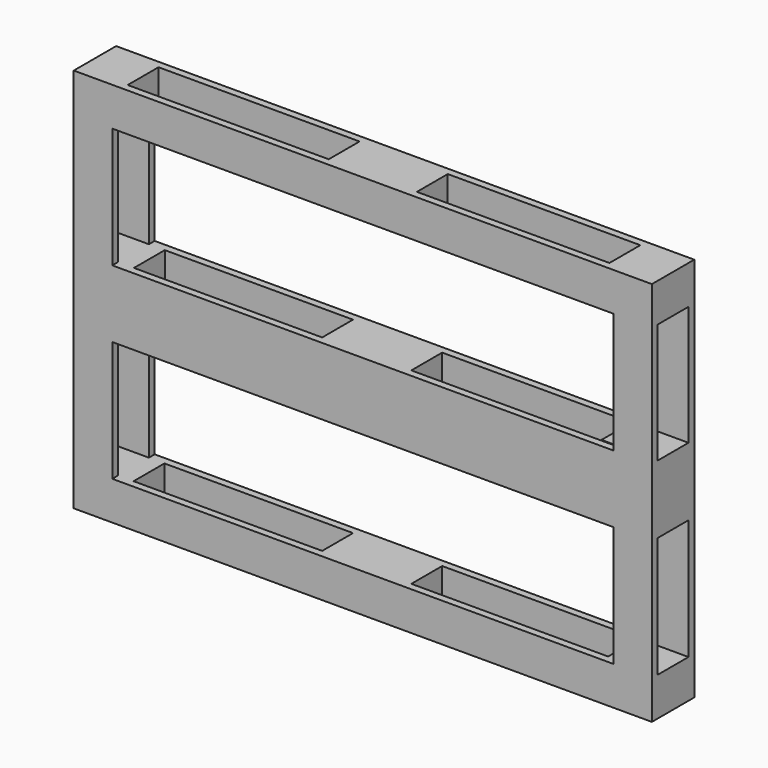
from build123d import *

# Parameters (mm, degrees)
F0_W     = 1200
F0_H     = 800
F0_W_2   = 1040
F0_H_2   = 250
F1_DEPTH = 15
F2_W     = 185.065291822
F2_H     = 140
F3_DEPTH = 40
F2_W_2   = 100
F2_H_2   = 80
F2_W_3   = 116.4537014898
F2_H_3   = 141.4459940791
F2_W_4   = 112.9816351
F2_W_5   = 102.8472425875
F2_W_6   = 112.1940789286
F2_W_7   = 183.0065995455
F4_DEPTH = 40


with BuildPart() as f1:
    # F0 (on Front) → F1 (new body)
    with BuildSketch(Plane.XZ):
        with Locations((-16.7594370905, 0)):
            Rectangle(F0_W, F0_H)
        with Locations((-16.7594370905, -195)):
            Rectangle(F0_W_2, F0_H_2, mode=Mode.SUBTRACT)
        with Locations((-16.7594370905, 195)):
            Rectangle(F0_W_2, F0_H_2, mode=Mode.SUBTRACT)
    extrude(amount=F1_DEPTH)

    # F2 (on face) → F3 (join)
    with BuildSketch(Plane(origin=(0, 0, 0), x_dir=(-1, 0, 0), z_dir=(0, 1, 0))):
        with Locations((20.5517672002, 0)):
            Rectangle(F2_W, F2_H)
        Polygon((616.7594370905, -70), (616.7594370905, 70), (536.7594370905, 70), (503.7778019905, 70), (503.7778019905, -70), (536.7594370905, -70), align=None)
        Polygon((616.7594370905, -400), (616.7594370905, -320), (536.7594370905, -320), (504.5653581619, -320), (504.5653581619, -400), align=None)
        Polygon((-503.2405629095, -320), (-583.2405629095, -320), (-583.2405629095, -400), (-480.393320322, -400), (-480.393320322, -320), align=None)
        Polygon((-503.2405629095, 70), (-503.2405629095, 71.4459940791), (-583.2405629095, 71.4459940791), (-583.2405629095, -70), (-503.2405629095, -70), (-466.7868614197, -70), (-466.7868614197, 70), align=None)
        Polygon((-483.2405629095, 320), (-483.2405629095, 400), (-583.2405629095, 400), (-583.2405629095, 320), (-503.2405629095, 320), align=None)
        Polygon((616.7594370905, 400), (516.7594370905, 400), (516.7594370905, 320), (536.7594370905, 320), (616.7594370905, 320), align=None)
    extrude(amount=F3_DEPTH)

    # F2 (on face) → F4 (join)
    with BuildSketch(Plane(origin=(0, 0, 0), x_dir=(-1, 0, 0), z_dir=(0, 1, 0))):
        with Locations((566.7594370905, 360)):
            Rectangle(F2_W_2, F2_H_2)
        with Locations((-533.2405629095, 360)):
            Rectangle(F2_W_2, F2_H_2)
        with Locations((-525.0137121646, 0.7229970396)):
            Rectangle(F2_W_3, F2_H_3)
        with Locations((560.2686195405, 0)):
            Rectangle(F2_W_4, F2_H)
        with Locations((20.5517672002, 0)):
            Rectangle(F2_W, F2_H)
        with Locations((-531.8169416158, -360)):
            Rectangle(F2_W_5, F2_H_2)
        with Locations((560.6623976262, -360)):
            Rectangle(F2_W_6, F2_H_2)
        with Locations((7.9610347748, 360)):
            Rectangle(F2_W_7, F2_H_2)
        with Locations((20.5517672002, -360)):
            Rectangle(F2_W, F2_H_2)
    extrude(amount=F4_DEPTH)

    # F5: F1 across face


with BuildPart() as f1_1:
    add(f1.part)
    add(f1.part.mirror(Plane(origin=(-20.5517672002, 40, 0), x_dir=(-1, 0, 0), z_dir=(0, 1, 0))))


solid = f1_1.part
